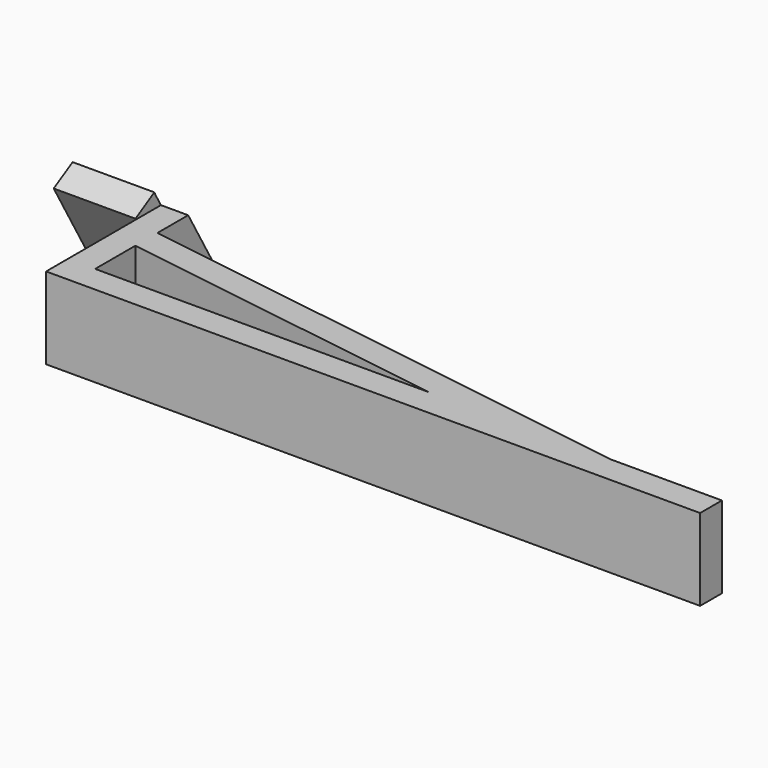
from build123d import *

# Parameters (mm, degrees)
CYLINDER_R             = 2
CYLINDER_DEPTH         = 10
CYLINDER_ROLL_ANGLE    = -60
BOX003_W               = 20
BOX003_H               = 10
BOX003_DEPTH           = 20
BOX003_PLACEMENT_ANGLE = 30
BOX005_W               = 20
BOX005_H               = 20
BOX005_DEPTH           = 5
BOX001_W               = 5
BOX001_H               = 35
BOX001_DEPTH           = 15
BOX002_W               = 15
BOX002_H               = 5
BOX002_DEPTH           = 21
BOX002_PLACEMENT_ANGLE = 30
BOX004_W               = 100
BOX004_H               = 5
BOX004_DEPTH           = 15
BOX004_PLACEMENT_ANGLE = -8.6
BOX_W                  = 120
BOX_H                  = 5
BOX_DEPTH              = 15


with BuildPart() as cylinder:
    # Cylinder → Cylinder (new body)
    with BuildSketch(Plane.XY):
        Circle(CYLINDER_R)
    extrude(amount=CYLINDER_DEPTH)


with BuildPart() as cylinder_1:
    # Cylinder roll: moved
    add(cylinder.part.rotate(Axis((0, 0, 0), (1, 0, 0)), CYLINDER_ROLL_ANGLE))


with BuildPart() as cylinder_2:
    # Cylinder placement: moved
    add(cylinder_1.part.moved(Location((-7.5, 25, 7.5))))


with BuildPart() as cube003:
    # Box003 → Box003 (new body)
    with BuildSketch(Plane.XY):
        with Locations((10, 5)):
            Rectangle(BOX003_W, BOX003_H)
    extrude(amount=BOX003_DEPTH)


with BuildPart() as cube003_1:
    # Box003 placement: moved
    add(cube003.part.moved(Location((-15, 35, 0))).rotate(Axis((-15, 35, 0), (1, 0, 0)), BOX003_PLACEMENT_ANGLE))


with BuildPart() as cube005:
    # Box005 → Box005 (new body)
    with BuildSketch(Plane(origin=(-15, 25, -5), x_dir=(1, 0, 0), z_dir=(0, 0, 1))):
        with Locations((10, 10)):
            Rectangle(BOX005_W, BOX005_H)
    extrude(amount=BOX005_DEPTH)


with BuildPart() as cube001:
    # Box001 → Box001 (new body)
    with BuildSketch(Plane.XY):
        with Locations((2.5, 17.5)):
            Rectangle(BOX001_W, BOX001_H)
    extrude(amount=BOX001_DEPTH)


with BuildPart() as cube002:
    # Box002 → Box002 (new body)
    with BuildSketch(Plane.XY):
        with Locations((7.5, 2.5)):
            Rectangle(BOX002_W, BOX002_H)
    extrude(amount=BOX002_DEPTH)


with BuildPart() as cube002_1:
    # Box002 placement: moved
    add(cube002.part.moved(Location((-15, 31, -3))).rotate(Axis((-15, 31, -3), (1, 0, 0)), BOX002_PLACEMENT_ANGLE))


with BuildPart() as cube004:
    # Box004 → Box004 (new body)
    with BuildSketch(Plane.XY):
        with Locations((50, 2.5)):
            Rectangle(BOX004_W, BOX004_H)
    extrude(amount=BOX004_DEPTH)


with BuildPart() as cube004_1:
    # Box004 placement: moved
    add(cube004.part.moved(Location((0, 15, 0))).rotate(Axis((0, 15, 0), (0, 0, 1)), BOX004_PLACEMENT_ANGLE))


with BuildPart() as z_probe_release_strut:
    # Box → Box (new body)
    with BuildSketch(Plane.XY):
        with Locations((60, 2.5)):
            Rectangle(BOX_W, BOX_H)
    extrude(amount=BOX_DEPTH)

    # Fusion: union Cube001, Cube002, Cube004
    add(cube001.part)
    add(cube002_1.part)
    add(cube004_1.part)

    # Cut: cut Cube005
    add(cube005.part, mode=Mode.SUBTRACT)

    # Cut001: cut Cube003
    add(cube003_1.part, mode=Mode.SUBTRACT)

    # Cut002: cut Cylinder
    add(cylinder_2.part, mode=Mode.SUBTRACT)


solid = z_probe_release_strut.part
